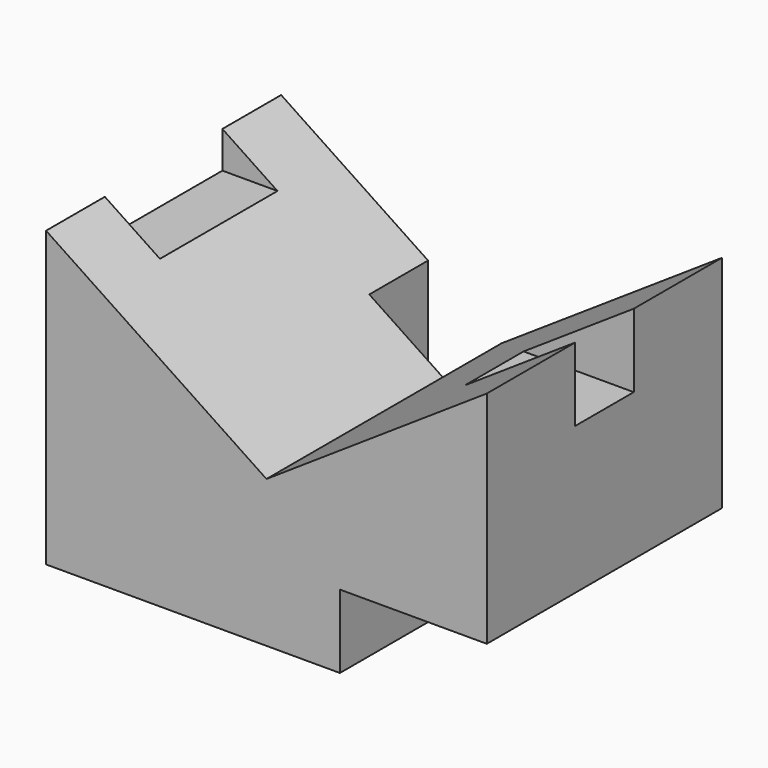
from build123d import *

# Parameters (mm, degrees)
F1_DEPTH = 101.6
F2_W     = 25.4
F2_H     = 25.4
F2_W_2   = 101.6
F3_DEPTH = 50.8
F4_W     = 25.4
F4_H     = 25.4
F5_DEPTH = 101.601
F6_W     = 50.8
F6_H     = 12.7
F7_DEPTH = 25.4


with BuildPart() as f1:
    # F0 (on Front) → F1 (new body)
    with BuildSketch(Plane.XZ):
        Polygon((-152.4, 0), (0, 0), (-76.2, 50.8), align=None)
        Polygon((-76.2, 50.8), (0, 0), (0, 101.6), align=None)
        Polygon((-152.4, 101.6), (-152.4, 0), (-76.2, 50.8), align=None)
    extrude(amount=F1_DEPTH)

    # F2 (on face) → F3 (cut)
    with BuildSketch(Plane.YZ):
        with Locations((-50.8, 88.9)):
            Rectangle(F2_W, F2_H)
        with Locations((-50.8, 12.7)):
            Rectangle(F2_W_2, F2_H)
    extrude(amount=-F3_DEPTH, mode=Mode.SUBTRACT)

    # F4 (on face) → F5 (cut, through all)
    with BuildSketch(Plane(origin=(0, 0, 0), x_dir=(1, 0, 0), z_dir=(0, 0, -1))):
        with Locations((-88.9, 12.7)):
            Rectangle(F4_W, F4_H)
    extrude(amount=-F5_DEPTH, mode=Mode.SUBTRACT)

    # F6 (on face) → F7 (cut)
    with BuildSketch(Plane(origin=(-152.4, 0, 0), x_dir=(0, -1, 0), z_dir=(-1, 0, 0))):
        with Locations((50.8, 95.25)):
            Rectangle(F6_W, F6_H)
    extrude(amount=-F7_DEPTH, mode=Mode.SUBTRACT)


solid = f1.part
